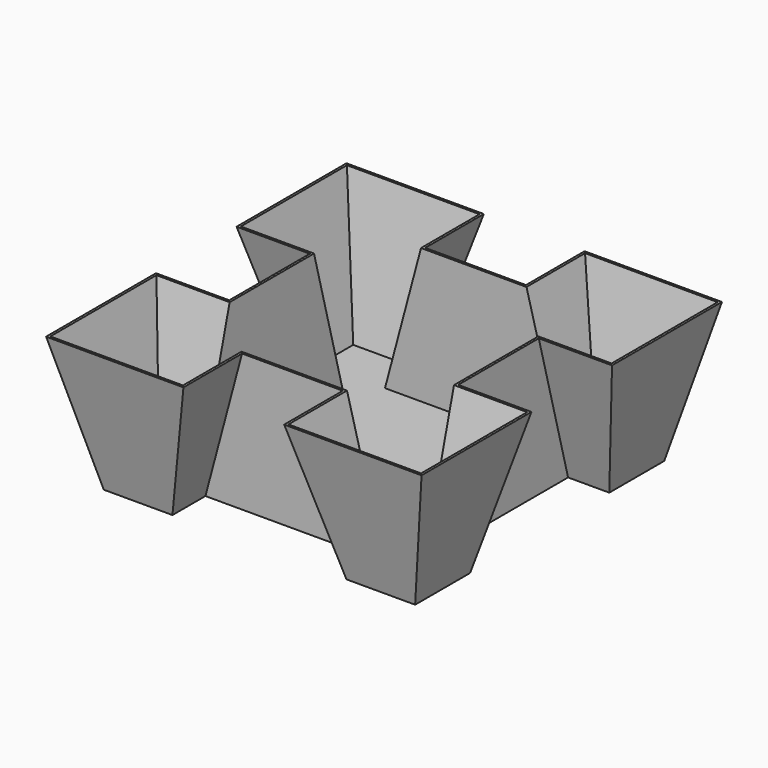
from build123d import *

# Parameters (mm, degrees)
F4_T = -2.5


with BuildPart() as f3:
    # F0 (on Top) → F3 section 0
    with BuildSketch(Plane.XY):
        Polygon((55, 125), (-55, 125), (-55, 205), (-205, 205), (-205, 55), (-125, 55), (-125, -55), (-205, -55), (-205, -205), (-55, -205), (-55, -125), (55, -125), (55, -205), (205, -205), (205, -55), (125, -55), (125, 55), (205, 55), (205, 205), (55, 205), align=None)
    # F2 (on offset) → F3 section 1
    with BuildSketch(Plane.XY.offset(-150)):
        Polygon((-95, -170), (-95, -125), (95, -125), (95, -170), (170, -170), (170, -95), (125, -95), (125, 95), (170, 95), (170, 170), (95, 170), (95, 125), (-95, 125), (-95, 170), (-170, 170), (-170, 95), (-125, 95), (-125, -95), (-170, -95), (-170, -170), align=None)
    loft()

    # F4
    f4_openings = [f3.faces().sort_by_distance(p)[0] for p in [
        (0, 0, 0),
    ]]
    offset(amount=F4_T, openings=f4_openings, kind=Kind.INTERSECTION)


solid = f3.part
